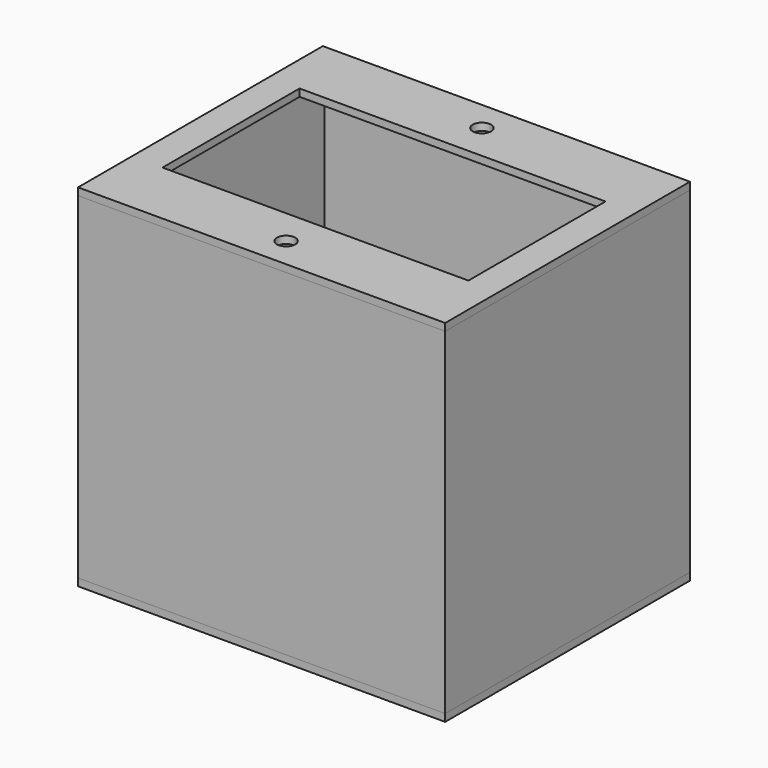
from build123d import *

# Parameters (mm, degrees)
F0_W     = 60
F0_H     = 50
F0_W_2   = 57.6
F0_H_2   = 47.6
F1_DEPTH = 55
F2_W     = 60
F2_H     = 50
F2_R     = 1.5
F2_W_2   = 50
F2_H_2   = 28
F3_DEPTH = 1.2
F4_W     = 60
F4_H     = 50
F4_R     = 2
F4_R_2   = 4
F5_DEPTH = 1.2


with BuildPart() as f1:
    # F0 (on Top) → F1 (new body)
    with BuildSketch(Plane.XY):
        Rectangle(F0_W, F0_H)
        Rectangle(F0_W_2, F0_H_2, mode=Mode.SUBTRACT)
    extrude(amount=F1_DEPTH)


with BuildPart() as f3:
    # F2 (on face) → F3 (new body)
    with BuildSketch(Plane.XY.offset(55)):
        Rectangle(F2_W, F2_H)
        with Locations((0, -20)):
            Circle(F2_R, mode=Mode.SUBTRACT)
        Rectangle(F2_W_2, F2_H_2, mode=Mode.SUBTRACT)
        with Locations((0, 20)):
            Circle(F2_R, mode=Mode.SUBTRACT)
    extrude(amount=F3_DEPTH)


with BuildPart() as f5:
    # F4 (on Top) → F5 (new body)
    with BuildSketch(Plane.XY):
        Rectangle(F4_W, F4_H)
        with Locations((-10, -12.5)):
            Circle(F4_R, mode=Mode.SUBTRACT)
        with BuildLine():
            Line((28.8, -17), (28.8, -19.75))
            ThreePointArc((28.8, -19.75), (25.55, -23), (22.3, -19.75))
            Line((22.3, -19.75), (22.3, -17))
            ThreePointArc((22.3, -17), (25.55, -13.75), (28.8, -17))
        make_face(mode=Mode.SUBTRACT)
        with Locations((8, -12)):
            Circle(F4_R_2, mode=Mode.SUBTRACT)
        with Locations((-10, 12.5)):
            Circle(F4_R, mode=Mode.SUBTRACT)
    extrude(amount=-F5_DEPTH)


solid = Compound([f1.part, f3.part, f5.part])
